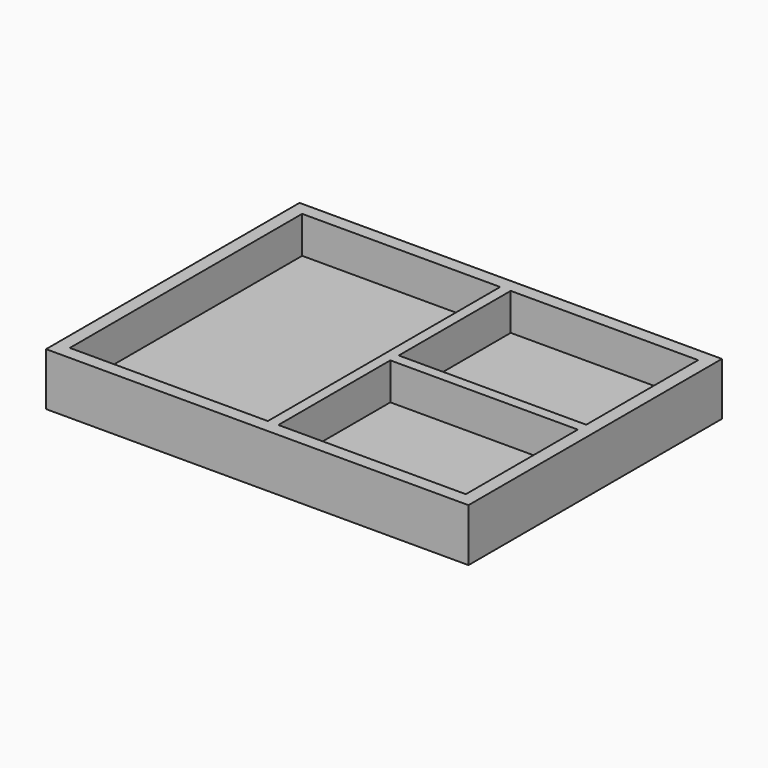
from build123d import *

# Parameters (mm, degrees)
F0_W     = 35.5
F0_H     = 26.5
F1_DEPTH = 10
F0_W_2   = 37.5
F0_H_2   = 27.5
F0_W_3   = 8.0000035167
F0_H_3   = 13.0000035167
F0_W_4   = 8
F0_H_4   = 13
F0_W_5   = 5
F0_H_5   = 10
F2_DEPTH = 3
F3_DEPTH = 1
F4_DEPTH = 2.9


with BuildPart() as f1:
    # F0 (on Top) → F1 (new body)
    with BuildSketch(Plane.XY):
        Polygon((0, 30), (0, 0), (80, 0), (80, 60), (0, 60), align=None)
        with Locations((59.75, 15.75)):
            Rectangle(F0_W, F0_H, mode=Mode.SUBTRACT)
        Polygon((2.5, 57.5), (40, 57.5), (40, 30), (40, 2.5), (2.5, 2.5), (2.5, 30), align=None, mode=Mode.SUBTRACT)
        with Locations((59.75, 44.25)):
            Rectangle(F0_W, F0_H, mode=Mode.SUBTRACT)
    extrude(amount=F1_DEPTH)

    # F0 (on Top) → F2 (join)
    with BuildSketch(Plane.XY):
        with Locations((21.25, 43.75)):
            Rectangle(F0_W_2, F0_H_2)
        with Locations((13, 44)):
            Rectangle(F0_W_3, F0_H_3, mode=Mode.SUBTRACT)
        with Locations((29, 44)):
            Rectangle(F0_W_3, F0_H_3, mode=Mode.SUBTRACT)
        with Locations((21.25, 16.25)):
            Rectangle(F0_W_2, F0_H_2)
        with Locations((13, 16)):
            Rectangle(F0_W_3, F0_H_3, mode=Mode.SUBTRACT)
        with Locations((29, 16)):
            Rectangle(F0_W_3, F0_H_3, mode=Mode.SUBTRACT)
        with Locations((59.75, 44.25)):
            Rectangle(F0_W, F0_H)
        with Locations((52, 44)):
            Rectangle(F0_W_4, F0_H_4, mode=Mode.SUBTRACT)
        with Locations((68, 44)):
            Rectangle(F0_W_4, F0_H_4, mode=Mode.SUBTRACT)
        with Locations((59.75, 15.75)):
            Rectangle(F0_W, F0_H)
        with Locations((52, 16)):
            Rectangle(F0_W_4, F0_H_4, mode=Mode.SUBTRACT)
        with Locations((68, 16)):
            Rectangle(F0_W_4, F0_H_4, mode=Mode.SUBTRACT)
        with Locations((13, 44)):
            Rectangle(F0_W_3, F0_H_3)
        with Locations((13, 44)):
            Rectangle(F0_W_5, F0_H_5, mode=Mode.SUBTRACT)
        with Locations((29, 44)):
            Rectangle(F0_W_3, F0_H_3)
        with Locations((29, 44)):
            Rectangle(F0_W_5, F0_H_5, mode=Mode.SUBTRACT)
        with Locations((29, 16)):
            Rectangle(F0_W_3, F0_H_3)
        with Locations((29, 16)):
            Rectangle(F0_W_5, F0_H_5, mode=Mode.SUBTRACT)
        with Locations((13, 16)):
            Rectangle(F0_W_3, F0_H_3)
        with Locations((13, 16)):
            Rectangle(F0_W_5, F0_H_5, mode=Mode.SUBTRACT)
        with Locations((52, 44)):
            Rectangle(F0_W_4, F0_H_4)
        with Locations((52, 44)):
            Rectangle(F0_W_5, F0_H_5, mode=Mode.SUBTRACT)
        with Locations((68, 44)):
            Rectangle(F0_W_4, F0_H_4)
        with Locations((68, 44)):
            Rectangle(F0_W_5, F0_H_5, mode=Mode.SUBTRACT)
        with Locations((68, 16)):
            Rectangle(F0_W_4, F0_H_4)
        with Locations((68, 16)):
            Rectangle(F0_W_5, F0_H_5, mode=Mode.SUBTRACT)
        with Locations((52, 16)):
            Rectangle(F0_W_4, F0_H_4)
        with Locations((52, 16)):
            Rectangle(F0_W_5, F0_H_5, mode=Mode.SUBTRACT)
        with Locations((13, 44)):
            Rectangle(F0_W_5, F0_H_5)
        with Locations((29, 44)):
            Rectangle(F0_W_5, F0_H_5)
        with Locations((52, 44)):
            Rectangle(F0_W_5, F0_H_5)
        with Locations((68, 44)):
            Rectangle(F0_W_5, F0_H_5)
        with Locations((68, 16)):
            Rectangle(F0_W_5, F0_H_5)
        with Locations((52, 16)):
            Rectangle(F0_W_5, F0_H_5)
        with Locations((29, 16)):
            Rectangle(F0_W_5, F0_H_5)
        with Locations((13, 16)):
            Rectangle(F0_W_5, F0_H_5)
    extrude(amount=F2_DEPTH)

    # F0 (on Top) → F3 (cut)
    with BuildSketch(Plane.XY):
        with Locations((68, 44)):
            Rectangle(F0_W_4, F0_H_4)
        with Locations((68, 44)):
            Rectangle(F0_W_5, F0_H_5, mode=Mode.SUBTRACT)
        with Locations((52, 44)):
            Rectangle(F0_W_4, F0_H_4)
        with Locations((52, 44)):
            Rectangle(F0_W_5, F0_H_5, mode=Mode.SUBTRACT)
        with Locations((52, 16)):
            Rectangle(F0_W_4, F0_H_4)
        with Locations((52, 16)):
            Rectangle(F0_W_5, F0_H_5, mode=Mode.SUBTRACT)
        with Locations((68, 16)):
            Rectangle(F0_W_4, F0_H_4)
        with Locations((68, 16)):
            Rectangle(F0_W_5, F0_H_5, mode=Mode.SUBTRACT)
        with Locations((29, 44)):
            Rectangle(F0_W_3, F0_H_3)
        with Locations((29, 44)):
            Rectangle(F0_W_5, F0_H_5, mode=Mode.SUBTRACT)
        with Locations((13, 44)):
            Rectangle(F0_W_3, F0_H_3)
        with Locations((13, 44)):
            Rectangle(F0_W_5, F0_H_5, mode=Mode.SUBTRACT)
        with Locations((13, 16)):
            Rectangle(F0_W_3, F0_H_3)
        with Locations((13, 16)):
            Rectangle(F0_W_5, F0_H_5, mode=Mode.SUBTRACT)
        with Locations((29, 16)):
            Rectangle(F0_W_3, F0_H_3)
        with Locations((29, 16)):
            Rectangle(F0_W_5, F0_H_5, mode=Mode.SUBTRACT)
    extrude(amount=F3_DEPTH, mode=Mode.SUBTRACT)

    # F0 (on Top) → F4 (cut)
    with BuildSketch(Plane.XY):
        with Locations((68, 44)):
            Rectangle(F0_W_5, F0_H_5)
        with Locations((52, 44)):
            Rectangle(F0_W_5, F0_H_5)
        with Locations((29, 44)):
            Rectangle(F0_W_5, F0_H_5)
        with Locations((13, 44)):
            Rectangle(F0_W_5, F0_H_5)
        with Locations((13, 16)):
            Rectangle(F0_W_5, F0_H_5)
        with Locations((29, 16)):
            Rectangle(F0_W_5, F0_H_5)
        with Locations((52, 16)):
            Rectangle(F0_W_5, F0_H_5)
        with Locations((68, 16)):
            Rectangle(F0_W_5, F0_H_5)
    extrude(amount=F4_DEPTH, mode=Mode.SUBTRACT)


solid = f1.part
